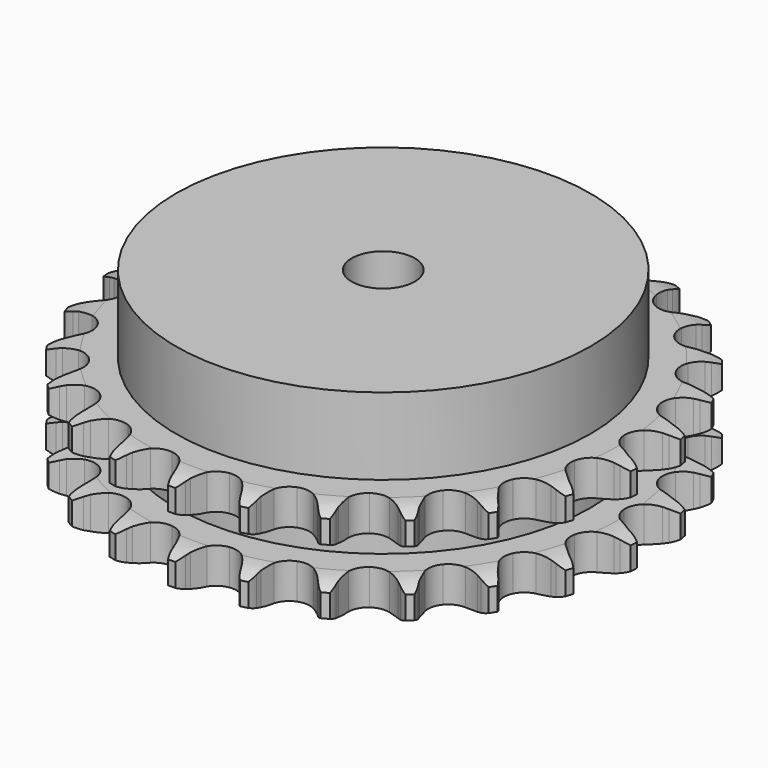
from build123d import *

# Parameters (mm, degrees)
PAD_DEPTH         = 25.5
SKETCH001_R       = 52.5
PAD001_DEPTH      = 45
SKETCH002_R       = 8
POCKET_DEPTH      = 0.001
POCKET_DEPTH_BACK = 45.001


with BuildPart() as part:
    # Sprocket → Pad (new body)
    with BuildSketch(Plane.XY):
        with BuildLine():
            ThreePointArc((-8.559046, 67.751829), (-7.283896, 66.312342), (-6.373029, 64.618691))
            Line((-6.373029, 64.618691), (-5.879113, 63.37374))
            ThreePointArc((-5.879113, 63.37374), (-5.091642, 61.728687), (-4.086072, 60.20713))
            ThreePointArc((-4.086072, 60.20713), (-2.278937, 58.720089), (0, 58.187667))
            ThreePointArc((0, 58.187667), (2.278937, 58.720089), (4.086072, 60.20713))
            ThreePointArc((4.086072, 60.20713), (5.091642, 61.728687), (5.879113, 63.37374))
            Line((5.879113, 63.37374), (6.373029, 64.618691))
            ThreePointArc((6.373029, 64.618691), (7.283896, 66.312342), (8.559046, 67.751829))
            ThreePointArc((8.559046, 67.751829), (9.43615, 66.040449), (9.897206, 64.173484))
            Line((9.897206, 64.173484), (10.065999, 62.844813))
            ThreePointArc((10.065999, 62.844813), (10.419622, 61.055607), (11.015204, 59.331777))
            ThreePointArc((11.015204, 59.331777), (12.395753, 57.442038), (14.470684, 56.359595))
            ThreePointArc((14.470684, 56.359595), (16.810432, 56.308541), (18.930604, 57.299447))
            Line((18.930604, 57.299447), (21.454818, 59.920661))
            ThreePointArc((21.454818, 59.920661), (21.83515, 60.472111), (22.242824, 61.003668))
            ThreePointArc((22.242824, 61.003668), (23.546267, 62.417587), (25.139343, 63.494732))
            ThreePointArc((25.139343, 63.494732), (25.563288, 61.618992), (25.545563, 59.696021))
            Line((25.545563, 59.696021), (25.378626, 58.367116))
            ThreePointArc((25.378626, 58.367116), (25.276182, 56.546178), (25.424354, 54.72839))
            ThreePointArc((25.424354, 54.72839), (26.291571, 52.554693), (28.032123, 50.990242))
            ThreePointArc((28.032123, 50.990242), (30.285666, 50.358921), (32.585658, 50.79143))
            Line((32.585658, 50.79143), (35.682438, 52.702547))
            ThreePointArc((35.682438, 52.702547), (36.187961, 53.142088), (36.71502, 53.55556))
            ThreePointArc((36.71502, 53.55556), (38.329141, 54.600905), (40.140042, 55.248028))
            ThreePointArc((40.140042, 55.248028), (40.08419, 53.325786), (39.588799, 51.467637))
            Line((39.588799, 51.467637), (39.096621, 50.221998))
            ThreePointArc((39.096621, 50.221998), (38.544547, 48.483745), (38.235998, 46.686217))
            ThreePointArc((38.235998, 46.686217), (38.535394, 44.365143), (39.832199, 42.416984))
            ThreePointArc((39.832199, 42.416984), (41.857941, 41.245064), (44.193234, 41.092))
            Line((44.193234, 41.092), (47.667999, 42.172938))
            ThreePointArc((47.667999, 42.172938), (48.26695, 42.472951), (48.880276, 42.742359))
            ThreePointArc((48.880276, 42.742359), (50.703653, 43.353447), (52.618595, 43.529887))
            ThreePointArc((52.618595, 43.529887), (52.086456, 41.681926), (51.144525, 40.005353))
            Line((51.144525, 40.005353), (50.358032, 38.921247))
            ThreePointArc((50.358032, 38.921247), (49.391016, 37.3749), (48.645134, 35.710578))
            ThreePointArc((48.645134, 35.710578), (48.357896, 33.387967), (49.129473, 31.178511))
            ThreePointArc((49.129473, 31.178511), (50.800127, 29.539627), (53.023988, 28.810609))
            Line((53.023988, 28.810609), (56.658404, 28.993449))
            ThreePointArc((56.658404, 28.993449), (57.313148, 29.135083), (57.974205, 29.243499))
            ThreePointArc((57.974205, 29.243499), (59.892268, 29.381933), (61.790927, 29.076603))
            ThreePointArc((61.790927, 29.076603), (60.815937, 27.419037), (59.486652, 26.029385))
            Line((59.486652, 26.029385), (58.455262, 25.174931))
            ThreePointArc((58.455262, 25.174931), (57.134067, 23.917652), (55.997718, 22.491111))
            ThreePointArc((55.997718, 22.491111), (55.141894, 20.312903), (55.33976, 17.980978))
            ThreePointArc((55.33976, 17.980978), (56.550354, 15.978108), (58.523049, 14.718941))
            Line((58.523049, 14.718941), (62.088754, 13.992194))
            ThreePointArc((62.088754, 13.992194), (62.758151, 13.966551), (63.425401, 13.907162))
            ThreePointArc((63.425401, 13.907162), (65.317632, 13.564244), (67.080709, 12.79633))
            ThreePointArc((67.080709, 12.79633), (65.72413, 11.433309), (64.091015, 10.417895))
            Line((64.091015, 10.417895), (62.879534, 9.846782))
            ThreePointArc((62.879534, 9.846782), (61.287173, 8.957571), (59.831758, 7.858446))
            ThreePointArc((59.831758, 7.858446), (58.461123, 5.961505), (58.072847, 3.653634))
            ThreePointArc((58.072847, 3.653634), (58.747314, 1.412625), (60.344891, -0.297572))
            Line((60.344891, -0.297572), (63.617839, -1.888242))
            ThreePointArc((63.617839, -1.888242), (64.259828, -2.079552), (64.891346, -2.303012))
            ThreePointArc((64.891346, -2.303012), (66.638849, -3.105736), (68.155563, -4.287985))
            ThreePointArc((68.155563, -4.287985), (66.502634, -5.270816), (64.668303, -5.84819))
            Line((64.668303, -5.84819), (63.352853, -6.100077))
            ThreePointArc((63.352853, -6.100077), (61.589381, -6.565348), (59.906349, -7.267995))
            ThreePointArc((59.906349, -7.267995), (58.107025, -8.764477), (57.157004, -10.903282))
            ThreePointArc((57.157004, -10.903282), (57.252965, -13.241618), (58.375043, -15.295387))
            Line((58.375043, -15.295387), (61.149581, -17.650032))
            ThreePointArc((61.149581, -17.650032), (61.723824, -17.994988), (62.279929, -18.368481))
            ThreePointArc((62.279929, -18.368481), (63.772902, -19.580572), (64.947952, -21.102869))
            ThreePointArc((64.947952, -21.102869), (63.102533, -21.643756), (61.182243, -21.746811))
            Line((61.182243, -21.746811), (59.845479, -21.663646))
            ThreePointArc((59.845479, -21.663646), (58.021702, -21.675742), (56.216804, -21.937761))
            ThreePointArc((56.216804, -21.937761), (54.10185, -22.939755), (52.649776, -24.775104))
            ThreePointArc((52.649776, -24.775104), (52.161201, -27.063842), (52.737275, -29.332137))
            Line((52.737275, -29.332137), (54.83907, -32.302806))
            ThreePointArc((54.83907, -32.302806), (55.309485, -32.779733), (55.755235, -33.27979))
            ThreePointArc((55.755235, -33.27979), (56.899869, -34.825088), (57.659423, -36.591782))
            ThreePointArc((57.659423, -36.591782), (55.737467, -36.65674), (53.851879, -36.279))
            Line((53.851879, -36.279), (52.577793, -35.866008))
            ThreePointArc((52.577793, -35.866008), (50.808306, -35.424169), (48.994951, -35.229097))
            ThreePointArc((48.994951, -35.229097), (46.697255, -35.673643), (44.834368, -37.090215))
            ThreePointArc((44.834368, -37.090215), (43.791958, -39.185545), (43.785831, -41.525841))
            Line((43.785831, -41.525841), (45.082818, -44.925876))
            ThreePointArc((45.082818, -44.925876), (45.419848, -45.504807), (45.727235, -46.100007))
            ThreePointArc((45.727235, -46.100007), (46.451608, -47.881416), (46.74794, -49.7815))
            ThreePointArc((46.74794, -49.7815), (44.870212, -49.366445), (43.137802, -48.531646))
            Line((43.137802, -48.531646), (42.006452, -47.814777))
            ThreePointArc((42.006452, -47.814777), (40.402437, -46.946765), (38.694564, -46.306859))
            ThreePointArc((38.694564, -46.306859), (36.358501, -46.166025), (34.201853, -47.074812))
            ThreePointArc((34.201853, -47.074812), (32.671104, -48.845076), (32.083162, -51.110324))
            Line((32.083162, -51.110324), (32.493847, -54.726088))
            ThreePointArc((32.493847, -54.726088), (32.676314, -55.370647), (32.826024, -56.023591))
            ThreePointArc((32.826024, -56.023591), (33.084621, -57.929178), (32.899112, -59.843262))
            ThreePointArc((32.899112, -59.843262), (31.183596, -58.974275), (29.713219, -57.73487))
            Line((29.713219, -57.73487), (28.79569, -56.759167))
            ThreePointArc((28.79569, -56.759167), (27.457934, -55.519524), (25.962856, -54.47499))
            ThreePointArc((25.962856, -54.47499), (23.735208, -53.757626), (21.420309, -54.101525))
            ThreePointArc((21.420309, -54.101525), (19.497405, -55.435491), (18.364589, -57.483357))
            Line((18.364589, -57.483357), (17.863169, -61.087659))
            ThreePointArc((17.863169, -61.087659), (17.879608, -61.757345), (17.862234, -62.427008))
            ThreePointArc((17.862234, -62.427008), (17.638806, -64.337037), (16.983112, -66.144852))
            ThreePointArc((16.983112, -66.144852), (15.5376, -64.876535), (14.421646, -63.310401))
            Line((14.421646, -63.310401), (13.77559, -62.137171))
            ThreePointArc((13.77559, -62.137171), (12.788149, -60.603786), (11.599806, -59.220258))
            ThreePointArc((11.599806, -59.220258), (9.620545, -57.971438), (7.292849, -57.72884))
            ThreePointArc((7.292849, -57.72884), (5.098612, -58.542691), (3.492103, -60.244499))
            Line((3.492103, -60.244499), (2.110081, -63.610867))
            ThreePointArc((2.110081, -63.610867), (1.95946, -64.263602), (1.776093, -64.907905))
            ThreePointArc((1.776093, -64.907905), (1.08468, -66.702363), (0, -68.290318))
            ThreePointArc((0, -68.290318), (-1.08468, -66.702363), (-1.776093, -64.907905))
            Line((-1.776093, -64.907905), (-2.110081, -63.610867))
            ThreePointArc((-2.110081, -63.610867), (-2.685163, -61.88009), (-3.492103, -60.244499))
            ThreePointArc((-3.492103, -60.244499), (-5.098612, -58.542691), (-7.292849, -57.72884))
            ThreePointArc((-7.292849, -57.72884), (-9.620545, -57.971438), (-11.599806, -59.220258))
            Line((-11.599806, -59.220258), (-13.77559, -62.137171))
            ThreePointArc((-13.77559, -62.137171), (-14.083808, -62.731941), (-14.421646, -63.310401))
            ThreePointArc((-14.421646, -63.310401), (-15.5376, -64.876535), (-16.983112, -66.144852))
            ThreePointArc((-16.983112, -66.144852), (-17.638806, -64.337037), (-17.862234, -62.427008))
            Line((-17.862234, -62.427008), (-17.863169, -61.087659))
            ThreePointArc((-17.863169, -61.087659), (-17.989757, -59.26824), (-18.364589, -57.483357))
            ThreePointArc((-18.364589, -57.483357), (-19.497405, -55.435491), (-21.420309, -54.101525))
            ThreePointArc((-21.420309, -54.101525), (-23.735208, -53.757626), (-25.962856, -54.47499))
            Line((-25.962856, -54.47499), (-28.79569, -56.759167))
            ThreePointArc((-28.79569, -56.759167), (-29.242139, -57.258601), (-29.713219, -57.73487))
            ThreePointArc((-29.713219, -57.73487), (-31.183596, -58.974275), (-32.899112, -59.843262))
            ThreePointArc((-32.899112, -59.843262), (-33.084621, -57.929178), (-32.826024, -56.023591))
            Line((-32.826024, -56.023591), (-32.493847, -54.726088))
            ThreePointArc((-32.493847, -54.726088), (-32.163987, -52.932349), (-32.083162, -51.110324))
            ThreePointArc((-32.083162, -51.110324), (-32.671104, -48.845076), (-34.201853, -47.074812))
            ThreePointArc((-34.201853, -47.074812), (-36.358501, -46.166025), (-38.694564, -46.306859))
            Line((-38.694564, -46.306859), (-42.006452, -47.814777))
            ThreePointArc((-42.006452, -47.814777), (-42.563078, -48.187492), (-43.137802, -48.531646))
            ThreePointArc((-43.137802, -48.531646), (-44.870212, -49.366445), (-46.74794, -49.7815))
            ThreePointArc((-46.74794, -49.7815), (-46.451608, -47.881416), (-45.727235, -46.100007))
            Line((-45.727235, -46.100007), (-45.082818, -44.925876))
            ThreePointArc((-45.082818, -44.925876), (-44.317237, -43.270524), (-43.785831, -41.525841))
            ThreePointArc((-43.785831, -41.525841), (-43.791958, -39.185545), (-44.834368, -37.090215))
            ThreePointArc((-44.834368, -37.090215), (-46.697255, -35.673643), (-48.994951, -35.229097))
            Line((-48.994951, -35.229097), (-52.577793, -35.866008))
            ThreePointArc((-52.577793, -35.866008), (-53.209623, -36.088587), (-53.851879, -36.279))
            ThreePointArc((-53.851879, -36.279), (-55.737467, -36.65674), (-57.659423, -36.591782))
            ThreePointArc((-57.659423, -36.591782), (-56.899869, -34.825088), (-55.755235, -33.27979))
            Line((-55.755235, -33.27979), (-54.83907, -32.302806))
            ThreePointArc((-54.83907, -32.302806), (-53.685871, -30.889852), (-52.737275, -29.332137))
            ThreePointArc((-52.737275, -29.332137), (-52.161201, -27.063842), (-52.649776, -24.775104))
            ThreePointArc((-52.649776, -24.775104), (-54.10185, -22.939755), (-56.216804, -21.937761))
            Line((-56.216804, -21.937761), (-59.845479, -21.663646))
            ThreePointArc((-59.845479, -21.663646), (-60.512811, -21.722102), (-61.182243, -21.746811))
            ThreePointArc((-61.182243, -21.746811), (-63.102533, -21.643756), (-64.947952, -21.102869))
            ThreePointArc((-64.947952, -21.102869), (-63.772902, -19.580572), (-62.279929, -18.368481))
            Line((-62.279929, -18.368481), (-61.149581, -17.650032))
            ThreePointArc((-61.149581, -17.650032), (-59.681224, -16.568257), (-58.375043, -15.295387))
            ThreePointArc((-58.375043, -15.295387), (-57.252965, -13.241618), (-57.157004, -10.903282))
            ThreePointArc((-57.157004, -10.903282), (-58.107025, -8.764477), (-59.906349, -7.267995))
            Line((-59.906349, -7.267995), (-63.352853, -6.100077))
            ThreePointArc((-63.352853, -6.100077), (-64.013757, -5.990738), (-64.668303, -5.84819))
            ThreePointArc((-64.668303, -5.84819), (-66.502634, -5.270816), (-68.155563, -4.287985))
            ThreePointArc((-68.155563, -4.287985), (-66.638849, -3.105736), (-64.891346, -2.303012))
            Line((-64.891346, -2.303012), (-63.617839, -1.888242))
            ThreePointArc((-63.617839, -1.888242), (-61.926587, -1.205618), (-60.344891, -0.297572))
            ThreePointArc((-60.344891, -0.297572), (-58.747314, 1.412625), (-58.072847, 3.653634))
            ThreePointArc((-58.072847, 3.653634), (-58.461123, 5.961505), (-59.831758, 7.858446))
            Line((-59.831758, 7.858446), (-62.879534, 9.846782))
            ThreePointArc((-62.879534, 9.846782), (-63.492483, 10.117046), (-64.091015, 10.417895))
            ThreePointArc((-64.091015, 10.417895), (-65.72413, 11.433309), (-67.080709, 12.79633))
            ThreePointArc((-67.080709, 12.79633), (-65.317632, 13.564244), (-63.425401, 13.907162))
            Line((-63.425401, 13.907162), (-62.088754, 13.992194))
            ThreePointArc((-62.088754, 13.992194), (-60.280874, 14.232774), (-58.523049, 14.718941))
            ThreePointArc((-58.523049, 14.718941), (-56.550354, 15.978108), (-55.33976, 17.980978))
            ThreePointArc((-55.33976, 17.980978), (-55.141894, 20.312903), (-55.997718, 22.491111))
            Line((-55.997718, 22.491111), (-58.455262, 25.174931))
            ThreePointArc((-58.455262, 25.174931), (-58.981743, 25.589139), (-59.486652, 26.029385))
            ThreePointArc((-59.486652, 26.029385), (-60.815937, 27.419037), (-61.790927, 29.076603))
            ThreePointArc((-61.790927, 29.076603), (-59.892268, 29.381933), (-57.974205, 29.243499))
            Line((-57.974205, 29.243499), (-56.658404, 28.993449))
            ThreePointArc((-56.658404, 28.993449), (-54.847493, 28.776869), (-53.023988, 28.810609))
            ThreePointArc((-53.023988, 28.810609), (-50.800127, 29.539627), (-49.129473, 31.178511))
            ThreePointArc((-49.129473, 31.178511), (-48.357896, 33.387967), (-48.645134, 35.710578))
            Line((-48.645134, 35.710578), (-50.358032, 38.921247))
            ThreePointArc((-50.358032, 38.921247), (-50.764963, 39.453372), (-51.144525, 40.005353))
            ThreePointArc((-51.144525, 40.005353), (-52.086456, 41.681926), (-52.618595, 43.529887))
            ThreePointArc((-52.618595, 43.529887), (-50.703653, 43.353447), (-48.880276, 42.742359))
            Line((-48.880276, 42.742359), (-47.667999, 42.172938))
            ThreePointArc((-47.667999, 42.172938), (-45.967841, 41.512808), (-44.193234, 41.092))
            ThreePointArc((-44.193234, 41.092), (-41.857941, 41.245064), (-39.832199, 42.416984))
            ThreePointArc((-39.832199, 42.416984), (-38.535394, 44.365143), (-38.235998, 46.686217))
            Line((-38.235998, 46.686217), (-39.096621, 50.221998))
            ThreePointArc((-39.096621, 50.221998), (-39.358434, 50.838605), (-39.588799, 51.467637))
            ThreePointArc((-39.588799, 51.467637), (-40.08419, 53.325786), (-40.140042, 55.248028))
            ThreePointArc((-40.140042, 55.248028), (-38.329141, 54.600905), (-36.71502, 53.55556))
            Line((-36.71502, 53.55556), (-35.682438, 52.702547))
            ThreePointArc((-35.682438, 52.702547), (-34.199862, 51.640344), (-32.585658, 50.79143))
            ThreePointArc((-32.585658, 50.79143), (-30.285666, 50.358921), (-28.032123, 50.990242))
            ThreePointArc((-28.032123, 50.990242), (-26.291571, 52.554693), (-25.424354, 54.72839))
            Line((-25.424354, 54.72839), (-25.378626, 58.367116))
            ThreePointArc((-25.378626, 58.367116), (-25.478869, 59.029461), (-25.545563, 59.696021))
            ThreePointArc((-25.545563, 59.696021), (-25.563288, 61.618992), (-25.139343, 63.494732))
            ThreePointArc((-25.139343, 63.494732), (-23.546267, 62.417587), (-22.242824, 61.003668))
            Line((-22.242824, 61.003668), (-21.454818, 59.920661))
            ThreePointArc((-21.454818, 59.920661), (-20.282979, 58.523127), (-18.930604, 57.299447))
            ThreePointArc((-18.930604, 57.299447), (-16.810432, 56.308541), (-14.470684, 56.359595))
            ThreePointArc((-14.470684, 56.359595), (-12.395753, 57.442038), (-11.015204, 59.331777))
            Line((-11.015204, 59.331777), (-10.065999, 62.844813))
            ThreePointArc((-10.065999, 62.844813), (-9.998374, 63.511279), (-9.897206, 64.173484))
            ThreePointArc((-9.897206, 64.173484), (-9.43615, 66.040449), (-8.559046, 67.751829))
        make_face()
    extrude(amount=PAD_DEPTH)

    # Sketch → Groove (revolve, cut)
    with BuildSketch(Plane.XZ):
        with BuildLine():
            ThreePointArc((60.025762, 0), (63.60347, 0.405129), (67, 1.6))
            Line((67, 1.6), (67, 7.4))
            ThreePointArc((67, 7.4), (63.60347, 8.594871), (60.025762, 9))
            Line((52.5, 9), (60.025762, 9))
            Line((52.5, 16.5), (52.5, 9))
            Line((60.025762, 16.5), (52.5, 16.5))
            ThreePointArc((60.025762, 16.5), (63.60347, 16.905129), (67, 18.1))
            Line((67, 18.1), (67, 23.9))
            ThreePointArc((67, 23.9), (63.60347, 25.094871), (60.025762, 25.5))
            Line((60.025762, 25.5), (70.025762, 25.5))
            Line((70.025762, 25.5), (70.025762, 0))
            Line((60.025762, 0), (70.025762, 0))
        make_face()
    revolve(axis=Axis((0, 0, 0), (0, 0, 1)), mode=Mode.SUBTRACT)

    # Sketch001 → Pad001 (join)
    with BuildSketch(Plane.XY):
        Circle(SKETCH001_R)
    extrude(amount=PAD001_DEPTH)

    # Sketch002 → Pocket (cut, two sides)
    with BuildSketch(Plane.XY) as pocket_sk:
        Circle(SKETCH002_R)
    extrude(amount=-POCKET_DEPTH, mode=Mode.SUBTRACT)
    extrude(pocket_sk.sketch, amount=POCKET_DEPTH_BACK, mode=Mode.SUBTRACT)


solid = part.part
